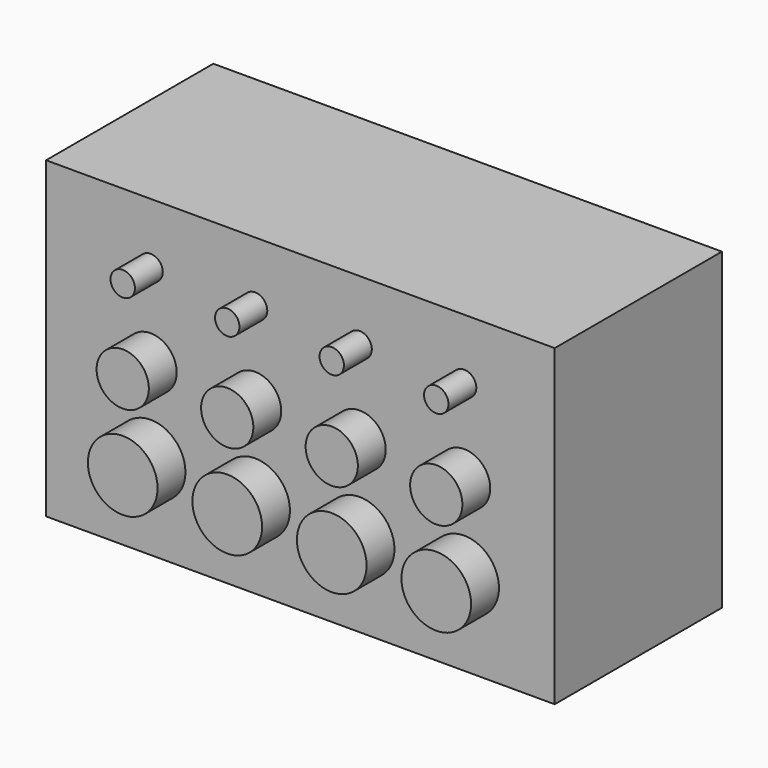
from build123d import *

# Parameters (mm, degrees)
F0_W     = 185.42
F0_H     = 114.3
F3_DEPTH = 76.2
F1_R     = 4.445
F1_R_2   = 9.525
F1_R_3   = 12.7
F2_DEPTH = 12.7


with BuildPart() as f3:
    # F0 (on Front) → F3 (new body)
    with BuildSketch(Plane.XZ):
        with Locations((92.71, 57.15)):
            Rectangle(F0_W, F0_H)
    extrude(amount=-F3_DEPTH)

    # F1 (on face) → F2 (join)
    with BuildSketch(Plane.XZ):
        with Locations((38.1, 92.235491)):
            Circle(F1_R)
        with Locations((38.1, 61.666828)):
            Circle(F1_R_2)
        with Locations((38.1, 30.721664)):
            Circle(F1_R_3)
        with Locations((76.2, 92.235491)):
            Circle(F1_R)
        with Locations((76.2, 61.666828)):
            Circle(F1_R_2)
        with Locations((76.2, 30.721664)):
            Circle(F1_R_3)
        with Locations((114.3, 92.235491)):
            Circle(F1_R)
        with Locations((114.3, 61.666828)):
            Circle(F1_R_2)
        with Locations((114.3, 30.721664)):
            Circle(F1_R_3)
        with Locations((152.4, 92.235491)):
            Circle(F1_R)
        with Locations((152.4, 61.666828)):
            Circle(F1_R_2)
        with Locations((152.4, 30.721664)):
            Circle(F1_R_3)
    extrude(amount=F2_DEPTH)


solid = f3.part
